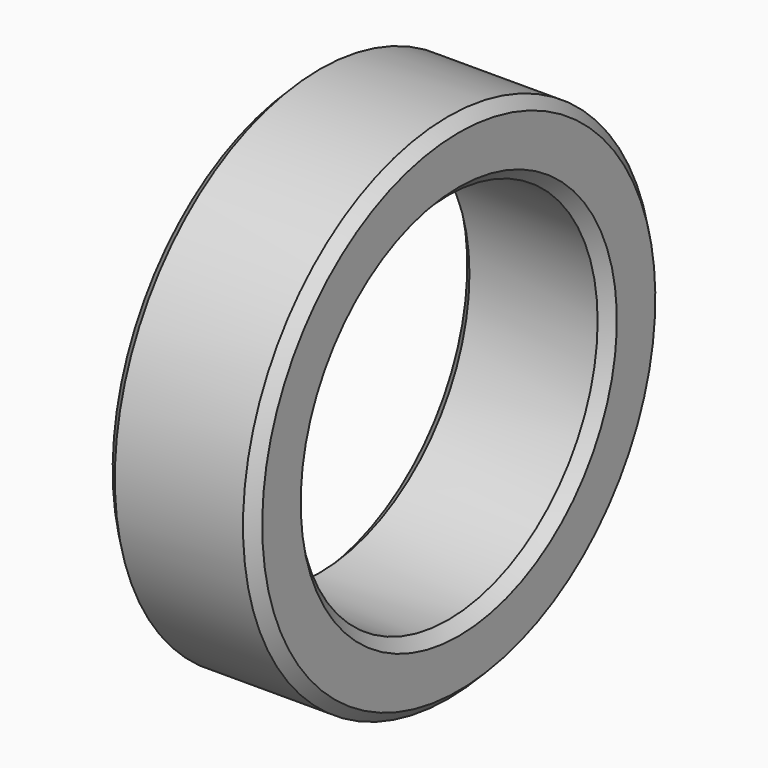
from build123d import *

# Parameters (mm, degrees)
F0_W    = 7
F0_H    = 3.25
F2_SIZE = 0.5


with BuildPart() as f1:
    # F0 (on Front) → F1 (revolve)
    with BuildSketch(Plane.XZ):
        with Locations((-3.5, 10.375)):
            Rectangle(F0_W, F0_H)
    revolve(axis=Axis((-10.189116, 0, 0), (-1, 0, 0)))

    # F2
    f2_edges = [f1.edges().sort_by_distance(p)[0] for p in [
        (0, 0, -12),
        (0, 0, -8.75),
        (-7, 0, -12),
        (-7, 0, -8.75),
    ]]
    chamfer(f2_edges, length=F2_SIZE)


solid = f1.part
